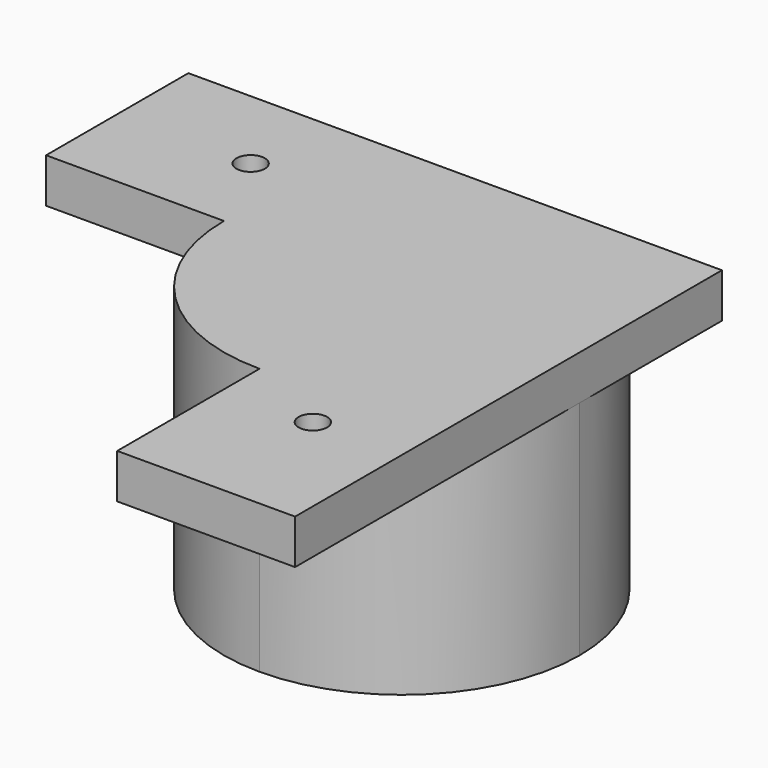
from build123d import *

# Parameters (mm, degrees)
F1_DEPTH = 5
F3_D     = 3.2
F5_DEPTH = 30


with BuildPart() as f1:
    # F0 (on Top) → F1 (new body)
    with BuildSketch(Plane.XY):
        Polygon((0, 20), (0, 0), (40, 0), (40, -40), (60, -40), (60, 20), align=None)
    extrude(amount=F1_DEPTH)

    # F3 (through all)
    with Locations(Plane.XY.offset(5)):
        with Locations((15, 10), (50, -25)):
            Hole(F3_D / 2)

    # F4 (on face) → F5 (join)
    with BuildSketch(Plane.XY.offset(5)):
        with BuildLine():
            ThreePointArc((40, -20), (54.1421356237, -14.1421356237), (60, 0))
            ThreePointArc((60, 0), (54.1421356237, 14.1421356237), (40, 20))
            ThreePointArc((40, 20), (25.8578643763, 14.1421356237), (20, 0))
            Line((20, 0), (40, 0))
            Line((40, 0), (40, -20))
        make_face()
        with BuildLine():
            ThreePointArc((20, 0), (25.8578643763, -14.1421356237), (40, -20))
            Line((40, -20), (40, 0))
            Line((40, 0), (20, 0))
        make_face()
    extrude(amount=-F5_DEPTH)


solid = f1.part
